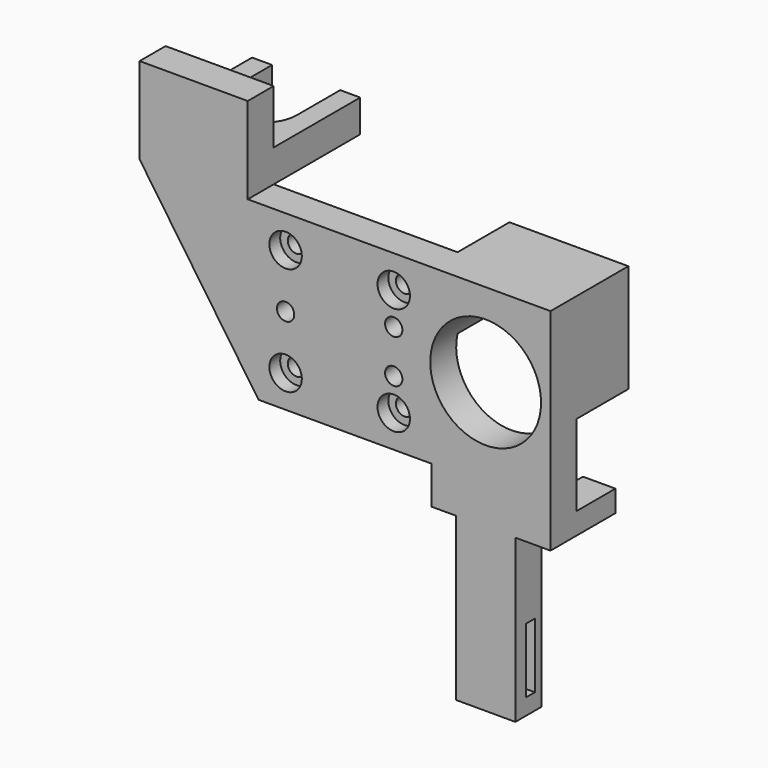
from build123d import *

# Parameters (mm, degrees)
SKETCH033_W     = 30
SKETCH033_H     = 32
PAD023_DEPTH    = 6
PAD024_DEPTH    = 6
SKETCH035_R     = 1.6
POCKET011_DEPTH = 6
SKETCH038_W     = 4
SKETCH038_H     = 4
SKETCH038_W_2   = 6
PAD027_DEPTH    = 9
SKETCH039_R     = 1.1
SKETCH039_R_2   = 1
POCKET012_DEPTH = 12
SKETCH040_R     = 10.25
POCKET013_DEPTH = 100
PAD028_DEPTH    = 9
POCKET014_DEPTH = 15
PAD029_DEPTH    = 3
SKETCH043_W     = 12
SKETCH043_H     = 2
POCKET015_DEPTH = 11
SKETCH045_W     = 20
SKETCH045_H     = 6
PAD030_DEPTH    = 20
POCKET016_DEPTH = 12
SKETCH047_R     = 1.6
POCKET017_DEPTH = 6
SKETCH048_R     = 3
POCKET018_DEPTH = 2.5
SKETCH049_R     = 3
POCKET019_DEPTH = 2.5
SKETCH058_R     = 1.05
POCKET021_DEPTH = 8


with BuildPart() as part:
    # Sketch033 → Pad023 (new body)
    with BuildSketch(Plane.XZ):
        Rectangle(SKETCH033_W, SKETCH033_H)
    extrude(amount=PAD023_DEPTH)

    # Sketch034 (on Face6 of Pad023) → Pad024 (join)
    with BuildSketch(Plane.XZ.offset(6)):
        Polygon((-15, 16), (15, 16), (39, 16), (39, -23), (32.5, -23), (32.5, -53), (21.5, -53), (21.5, -23), (17, -23), (17, -16), (15, -16), (-15, -16), (-37, 16), (-37, 32), (-17, 32), (-17, 16), align=None)
    extrude(amount=-PAD024_DEPTH)

    # Sketch035 (on Face14 of Pad024) → Pocket011 (cut)
    with BuildSketch(Plane.XZ.offset(6)):
        with Locations((-10, 10)):
            Circle(SKETCH035_R)
        with Locations((10, 10)):
            Circle(SKETCH035_R)
        with Locations((10, -10)):
            Circle(SKETCH035_R)
        with Locations((-10, -10)):
            Circle(SKETCH035_R)
    extrude(amount=-POCKET011_DEPTH, mode=Mode.SUBTRACT)

    # Sketch038 (on Face5 of Pocket011) → Pad027 (join)
    with BuildSketch(Plane(origin=(0, 0, 0), x_dir=(1, 0, 0), z_dir=(0, 1, 0))):
        with Locations((19, 21)):
            Rectangle(SKETCH038_W, SKETCH038_H)
        with Locations((36, 21)):
            Rectangle(SKETCH038_W_2, SKETCH038_H)
    extrude(amount=PAD027_DEPTH)

    # Sketch039 (on Face21 of Pad027) → Pocket012 (cut)
    with BuildSketch(Plane(origin=(0, 9, 0), x_dir=(1, 0, 0), z_dir=(0, 1, 0))):
        with Locations((19.2, 20.7)):
            Circle(SKETCH039_R)
        with Locations((34.8, 20.7)):
            Circle(SKETCH039_R_2)
    extrude(amount=-POCKET012_DEPTH, mode=Mode.SUBTRACT)

    # Sketch040 (on Face4 of Pocket012) → Pocket013 (cut)
    with BuildSketch(Plane.XZ.offset(6)):
        with Locations((27, 0.5)):
            Circle(SKETCH040_R)
    extrude(amount=-POCKET013_DEPTH, mode=Mode.SUBTRACT)

    # Sketch041 (on Face5 of Pocket013) → Pad028 (join)
    with BuildSketch(Plane(origin=(0, 0, 0), x_dir=(1, 0, 0), z_dir=(0, 1, 0))):
        Polygon((39, -16), (39, 4), (32, 4), (32, 0), (17, 0), (17, -16), align=None)
    extrude(amount=PAD028_DEPTH)

    # Sketch040 (on Face4 of Pocket012) → Pocket014 (cut)
    with BuildSketch(Plane.XZ.offset(6)):
        with Locations((27, 0.5)):
            Circle(SKETCH040_R)
    extrude(amount=-POCKET014_DEPTH, mode=Mode.SUBTRACT)

    # Sketch042 (on Face27 of Pocket014) → Pad029 (join)
    with BuildSketch(Plane(origin=(0, 9, 0), x_dir=(1, 0, 0), z_dir=(0, 1, 0))):
        Polygon((17, -12), (38, -12), (38, 4), (39, 4), (39, -16), (17, -16), align=None)
    extrude(amount=PAD029_DEPTH)

    # Sketch043 (on Face12 of Pad029) → Pocket015 (cut)
    with BuildSketch(Plane(origin=(32.5, 0, 0), x_dir=(0, 0, 1), z_dir=(1, 0, 0))):
        with Locations((-44, 2.5)):
            Rectangle(SKETCH043_W, SKETCH043_H)
    extrude(amount=-POCKET015_DEPTH, mode=Mode.SUBTRACT)

    # Sketch045 (on Face5 of Pocket015) → Pad030 (join)
    with BuildSketch(Plane(origin=(0, 0, 0), x_dir=(1, 0, 0), z_dir=(0, 1, 0))):
        with Locations((-27, -19)):
            Rectangle(SKETCH045_W, SKETCH045_H)
    extrude(amount=PAD030_DEPTH)

    # Sketch046 (on Face26 of Pad030) → Pocket016 (cut)
    with BuildSketch(Plane(origin=(0, 0, 16), x_dir=(1, 0, 0), z_dir=(0, 0, -1))):
        with BuildLine():
            ThreePointArc((-20.7, -10), (-27, -3.7), (-33.3, -10))
            Line((-33.3, -10), (-33.3, -25))
            ThreePointArc((-33.3, -25), (-27, -31.3), (-20.7, -25))
            Line((-20.7, -10), (-20.7, -25))
        make_face()
    extrude(amount=-POCKET016_DEPTH, mode=Mode.SUBTRACT)

    # Sketch047 (on Face4 of Pocket016) → Pocket017 (cut)
    with BuildSketch(Plane.XZ.offset(6)):
        with Locations((10, -4)):
            Circle(SKETCH047_R)
        with Locations((10, 4)):
            Circle(SKETCH047_R)
        with Locations((-10, 0)):
            Circle(SKETCH047_R)
    extrude(amount=-POCKET017_DEPTH, mode=Mode.SUBTRACT)

    # Sketch048 (on Face4 of Pocket017) → Pocket018 (cut)
    with BuildSketch(Plane.XZ.offset(6)):
        with Locations((-10, 10)):
            Circle(SKETCH048_R)
        with Locations((10, 10)):
            Circle(SKETCH048_R)
        with Locations((10, -10)):
            Circle(SKETCH048_R)
        with Locations((-10, -10)):
            Circle(SKETCH048_R)
    extrude(amount=-POCKET018_DEPTH, mode=Mode.SUBTRACT)

    # Sketch049 (on Face5 of Pocket018) → Pocket019 (cut)
    with BuildSketch(Plane(origin=(0, 0, 0), x_dir=(1, 0, 0), z_dir=(0, 1, 0))):
        with Locations((-10, 0)):
            Circle(SKETCH049_R)
        with Locations((10, 4)):
            Circle(SKETCH049_R)
        with Locations((10, -4)):
            Circle(SKETCH049_R)
    extrude(amount=-POCKET019_DEPTH, mode=Mode.SUBTRACT)

    # Sketch058 (on Face50 of Pocket019) → Pocket021 (cut)
    with BuildSketch(Plane(origin=(0, 12, 0), x_dir=(1, 0, 0), z_dir=(0, 1, 0))):
        with Locations((32, -14)):
            Circle(SKETCH058_R)
        with Locations((22, -14)):
            Circle(SKETCH058_R)
    extrude(amount=-POCKET021_DEPTH, mode=Mode.SUBTRACT)


with BuildPart() as part_1:
    # Body005 placement: moved
    add(part.part.moved(Location((-1, -37, 39.4))))


solid = part_1.part
